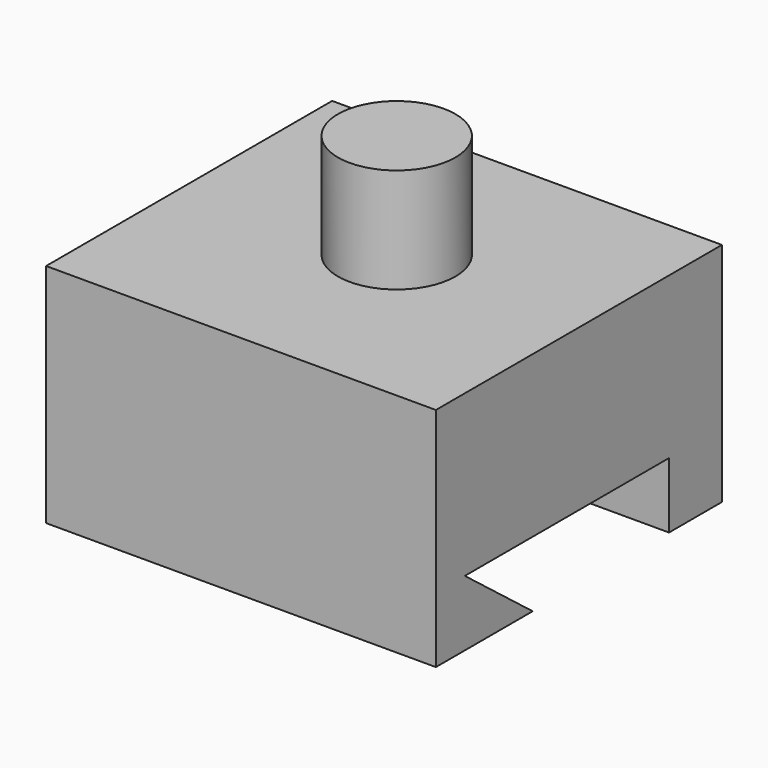
from build123d import *

# Parameters (mm, degrees)
F0_W     = 94.4796726108
F0_H     = 86.6620987654
F1_DEPTH = 54.864
F3_DEPTH = 94.4806726108
F4_R     = 14.2396166793
F5_DEPTH = 25.4


with BuildPart() as f1:
    # F0 (on Top) → F1 (new body)
    with BuildSketch(Plane.XY):
        with Locations((-1.709651202, -1.7030909657)):
            Rectangle(F0_W, F0_H)
    extrude(amount=F1_DEPTH)

    # F2 (on face) → F3 (cut, through all)
    with BuildSketch(Plane.YZ.offset(45.5301851034)):
        Polygon((-36.2590327859, 15.8963445574), (-15.7042443752, 0), (25.5974382162, 0), (25.5974382162, 15.8963445574), align=None)
    extrude(amount=-F3_DEPTH, mode=Mode.SUBTRACT)

    # F4 (on face) → F5 (join)
    with BuildSketch(Plane.XY.offset(54.864)):
        Circle(F4_R)
    extrude(amount=F5_DEPTH)


solid = f1.part
